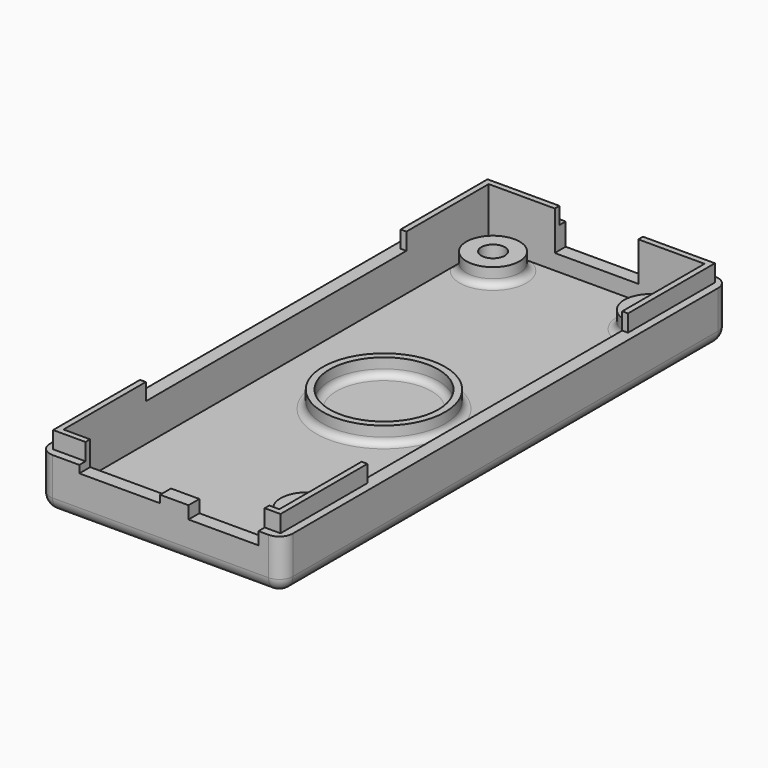
from build123d import *

# Parameters (mm, degrees)
SKETCH_W        = 35.78
SKETCH_H        = 82.26
PAD_DEPTH       = 7.55
SKETCH001_W     = 31.78
SKETCH001_H     = 78.26
POCKET_DEPTH    = 5.55
SKETCH002_R     = 3.92
SKETCH002_R_2   = 9
SKETCH002_R_3   = 8
PAD001_DEPTH    = 2.5
SKETCH003_R     = 1.725
HOLE_DEPTH      = 25
SKETCH004_W     = 11.9
SKETCH004_H     = 2.65
POCKET001_DEPTH = 1.1
SKETCH005_W     = 10.3
SKETCH005_H     = 2.65
POCKET002_DEPTH = 1.85
SKETCH006_W     = 12.3
SKETCH006_H     = 2.65
POCKET003_DEPTH = 3.27
PAD002_DEPTH    = 2.5
POCKET004_DEPTH = 2.5
FILLET_R        = 1
FILLET001_R     = 1.99


with BuildPart() as part:
    # Sketch → Pad (new body)
    with BuildSketch(Plane.XY.offset(-4.55)):
        with Locations((15.24, 38.48)):
            Rectangle(SKETCH_W, SKETCH_H)
    extrude(amount=PAD_DEPTH)

    # Sketch001 → Pocket (cut)
    with BuildSketch(Plane.XY.offset(-2.55)):
        with Locations((15.24, 38.48)):
            Rectangle(SKETCH001_W, SKETCH001_H)
    extrude(amount=POCKET_DEPTH, mode=Mode.SUBTRACT)

    # Sketch002 → Pad001 (join)
    with BuildSketch(Plane.XY.offset(-2.55)):
        with Locations((26.8, 9.91)):
            Circle(SKETCH002_R)
        with Locations((3.56, 73.15)):
            Circle(SKETCH002_R)
        with Locations((26.8, 73.15)):
            Circle(SKETCH002_R)
        with Locations((15.24, 38.48)):
            Circle(SKETCH002_R_2)
        with Locations((15.24, 38.48)):
            Circle(SKETCH002_R_3, mode=Mode.SUBTRACT)
    extrude(amount=PAD001_DEPTH)

    # Sketch003 → Hole (cut)
    with BuildSketch(Plane.XY.offset(-4.55)):
        with Locations((26.8, 9.91)):
            Circle(SKETCH003_R)
        with Locations((3.56, 73.15)):
            Circle(SKETCH003_R)
        with Locations((26.8, 73.15)):
            Circle(SKETCH003_R)
    extrude(amount=HOLE_DEPTH, mode=Mode.SUBTRACT)

    # Sketch004 → Pocket001 (cut)
    with BuildSketch(Plane.XY.offset(3)):
        with Locations((9.23, -1.325)):
            Rectangle(SKETCH004_W, SKETCH004_H)
    extrude(amount=-POCKET001_DEPTH, mode=Mode.SUBTRACT)

    # Sketch005 → Pocket002 (cut)
    with BuildSketch(Plane.XY.offset(3)):
        with Locations((24.51, -1.325)):
            Rectangle(SKETCH005_W, SKETCH005_H)
    extrude(amount=-POCKET002_DEPTH, mode=Mode.SUBTRACT)

    # Sketch006 → Pocket003 (cut)
    with BuildSketch(Plane.XY.offset(3)):
        with Locations((15.23, 78.285)):
            Rectangle(SKETCH006_W, SKETCH006_H)
    extrude(amount=-POCKET003_DEPTH, mode=Mode.SUBTRACT)

    # Sketch007 → Pad002 (join)
    with BuildSketch(Plane.XY.offset(3)):
        Polygon((-0.65, 14.5), (-0.65, -0.65), (3.28, -0.65), (3.28, -1.5), (-1.5, -1.5), (-1.5, 14.5), align=None)
        Polygon((29.66, -0.65), (29.66, -1.5), (31.98, -1.5), (31.98, 14.5), (31.13, 14.5), (31.13, -0.65), align=None)
        Polygon((-1.5, 78.46), (-1.5, 62.46), (-0.65, 62.46), (-0.65, 77.61), (9.08, 77.61), (9.08, 78.46), align=None)
        Polygon((21.38, 78.46), (21.38, 77.61), (31.13, 77.61), (31.13, 62.46), (31.98, 62.46), (31.98, 78.46), align=None)
    extrude(amount=PAD002_DEPTH)

    # Sketch008 → Pocket004 (cut)
    with BuildSketch(Plane.XY.offset(-4.55)):
        Polygon((28.474316, 7.01), (30.148632, 9.91), (28.474316, 12.81), (25.125684, 12.81), (23.451368, 9.91), (25.125684, 7.01), align=None)
        Polygon((28.474316, 70.25), (30.148632, 73.15), (28.474316, 76.05), (25.125684, 76.05), (23.451368, 73.15), (25.125684, 70.25), align=None)
        Polygon((5.234316, 70.25), (6.908632, 73.15), (5.234316, 76.05), (1.885684, 76.05), (0.211368, 73.15), (1.885684, 70.25), align=None)
    extrude(amount=POCKET004_DEPTH, mode=Mode.SUBTRACT)

    # Fillet
    fillet_edges = [part.edges().sort_by_distance(p)[0] for p in [
        (-0.36, 73.15, -2.55),
        (7.24, 38.48, -2.55),
        (22.88, 73.15, -2.55),
        (6.24, 38.48, -2.55),
        (22.88, 9.91, -2.55),
    ]]
    fillet(fillet_edges, radius=FILLET_R)

    # Fillet001
    fillet001_edges = [part.edges().sort_by_distance(p)[0] for p in [
        (33.13, 79.61, -0.775),
        (15.24, 79.61, -4.55),
        (-2.65, 79.61, -0.775),
        (-2.65, 38.48, -4.55),
        (33.13, 38.48, -4.55),
        (-2.65, -2.65, -0.775),
        (15.24, -2.65, -4.55),
        (33.13, -2.65, -0.775),
    ]]
    fillet(fillet001_edges, radius=FILLET001_R)


solid = part.part
